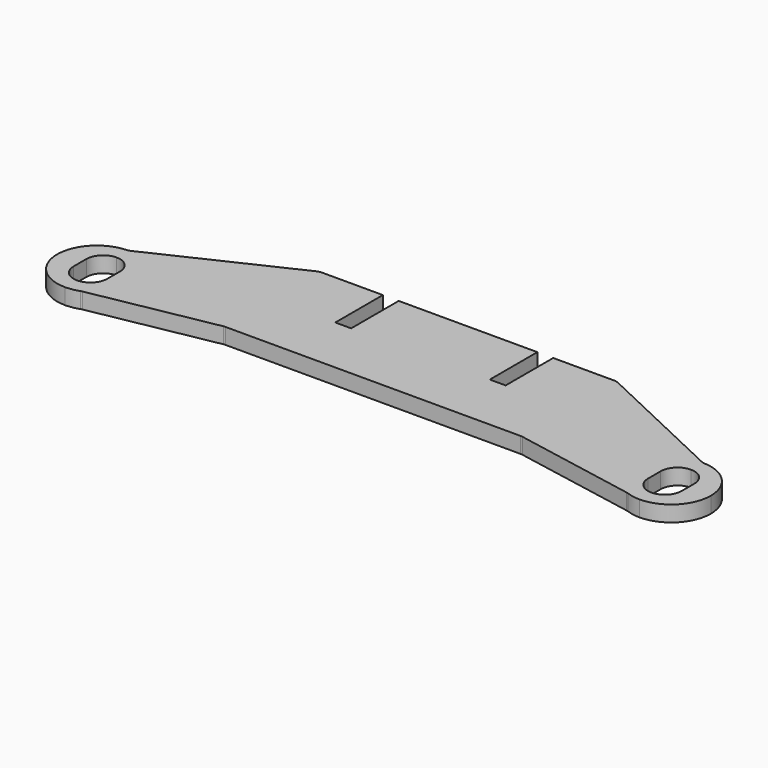
from build123d import *

# Parameters (mm, degrees)
F1_DEPTH = 8
F2_R     = 5


with BuildPart() as f1:
    # F0 (on Top) → F1 (new body)
    with BuildSketch(Plane.XY):
        with BuildLine():
            ThreePointArc((-145, -43.026655901), (-141.3409185754, -42.6890851285), (-137.805357045, -41.6877682137))
            Line((-137.805357045, -41.6877682137), (-145, -43.026655901))
        make_face()
        with BuildLine():
            Line((145, -43.026655901), (137.805357045, -41.6877682137))
            ThreePointArc((137.805357045, -41.6877682137), (141.3409185754, -42.6890851285), (145, -43.026655901))
        make_face()
        with BuildLine():
            Line((-137.805357045, -41.6877682137), (-75, -30))
            Line((-75, -30), (-75, 30))
            Line((-75, 30), (-145, -3.026655901))
            ThreePointArc((-145, -3.026655901), (-130.8578643763, -8.8845202772), (-125, -23.026655901))
            ThreePointArc((-125, -23.026655901), (-128.5092016703, -34.3427316541), (-137.805357045, -41.6877682137))
        make_face()
        with BuildLine():
            Line((75, 30), (75, -30))
            Line((75, -30), (137.805357045, -41.6877682137))
            ThreePointArc((137.805357045, -41.6877682137), (125.3375707725, -19.3675744763), (145, -3.026655901))
            Line((145, -3.026655901), (75, 30))
        make_face()
        Polygon((-75, 30), (-75, -30), (-66.3212612271, -30), (75, -30), (75, 30), (43, 30), (43, 0), (35, 0), (35, 30), (-35, 30), (-35, 0), (-43, 0), (-43, 30), align=None)
        with BuildLine():
            Line((-145, -10.526655901), (-145, -3.026655901))
            ThreePointArc((-145, -3.026655901), (-165, -23.026655901), (-145, -43.026655901))
            Line((-145, -43.026655901), (-145, -35.526655901))
            ThreePointArc((-145, -35.526655901), (-151.0104076401, -33.037063541), (-153.5, -27.026655901))
            Line((-153.5, -27.026655901), (-153.5, -19.026655901))
            ThreePointArc((-153.5, -19.026655901), (-151.0104076401, -13.0162482609), (-145, -10.526655901))
        make_face()
        with BuildLine():
            ThreePointArc((165, -23.026655901), (159.1421356237, -8.8845202772), (145, -3.026655901))
            Line((145, -3.026655901), (145, -10.526655901))
            ThreePointArc((145, -10.526655901), (151.0104076401, -13.0162482609), (153.5, -19.026655901))
            Line((153.5, -19.026655901), (153.5, -27.026655901))
            ThreePointArc((153.5, -27.026655901), (151.0104076401, -33.037063541), (145, -35.526655901))
            Line((145, -35.526655901), (145, -43.026655901))
            ThreePointArc((145, -43.026655901), (159.1421356237, -37.1687915247), (165, -23.026655901))
        make_face()
        with BuildLine():
            Line((-145, -43.026655901), (-137.805357045, -41.6877682137))
            ThreePointArc((-137.805357045, -41.6877682137), (-128.5092016703, -34.3427316541), (-125, -23.026655901))
            ThreePointArc((-125, -23.026655901), (-130.8578643763, -8.8845202772), (-145, -3.026655901))
            Line((-145, -3.026655901), (-145, -10.526655901))
            ThreePointArc((-145, -10.526655901), (-138.9895923599, -13.0162482609), (-136.5, -19.026655901))
            Line((-136.5, -19.026655901), (-136.5, -27.026655901))
            ThreePointArc((-136.5, -27.026655901), (-138.9895923599, -33.037063541), (-145, -35.526655901))
            Line((-145, -35.526655901), (-145, -43.026655901))
        make_face()
        with BuildLine():
            ThreePointArc((145, -3.026655901), (125.3375707725, -19.3675744763), (137.805357045, -41.6877682137))
            Line((137.805357045, -41.6877682137), (145, -43.026655901))
            Line((145, -43.026655901), (145, -35.526655901))
            ThreePointArc((145, -35.526655901), (138.9895923599, -33.037063541), (136.5, -27.026655901))
            Line((136.5, -27.026655901), (136.5, -19.026655901))
            ThreePointArc((136.5, -19.026655901), (138.9895923599, -13.0162482609), (145, -10.526655901))
            Line((145, -10.526655901), (145, -3.026655901))
        make_face()
    extrude(amount=F1_DEPTH)

    # F2
    f2_edges = [f1.edges().sort_by_distance(p)[0] for p in [
        (75, -30, 4),
        (-75, -30, 4),
        (-75, 30, 4),
        (75, 30, 4),
        (145, -3.026656, 4),
        (-145, -3.026656, 4),
        (-137.805357, -41.687768, 4),
        (137.805357, -41.687768, 4),
    ]]
    fillet(f2_edges, radius=F2_R)


solid = f1.part
